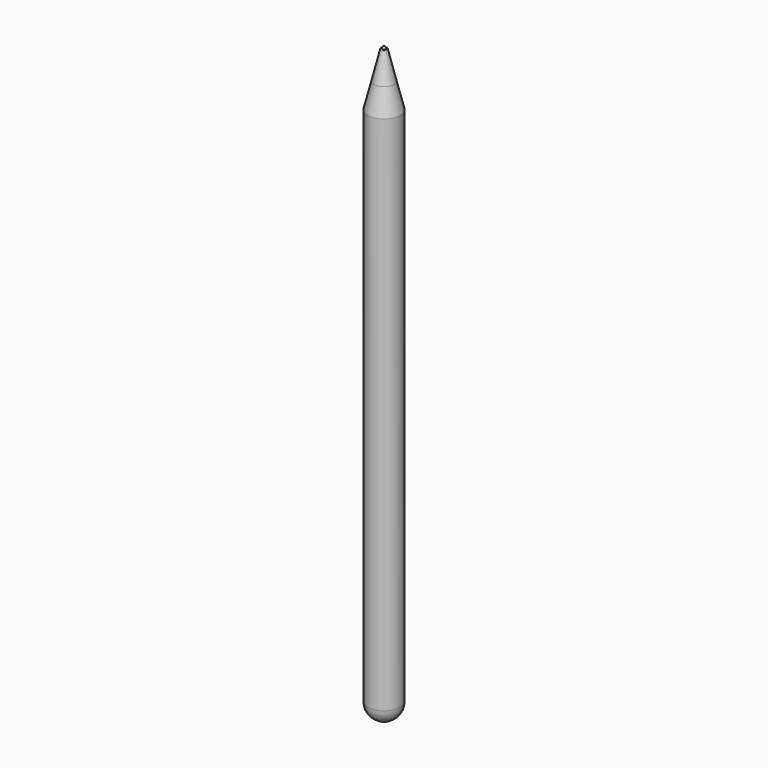
from build123d import *

# Parameters (mm, degrees)
SKETCH005_R     = 4.5
PAD003_DEPTH    = 145.5
SKETCH006_W     = 4
SKETCH006_H     = 3.989153
POCKET002_DEPTH = 150
SKETCH008_R     = 0.4
POCKET003_DEPTH = 10
FILLET002_R     = 0.2
SKETCH011_R     = 0.3
PAD004_DEPTH    = 3
FILLET003_R     = 0.1
SKETCH012_R     = 0.3
PAD005_DEPTH    = 3
FILLET004_R     = 0.1
SKETCH013_R     = 0.3
PAD006_DEPTH    = 3
FILLET005_R     = 0.1
SKETCH014_R     = 0.3
PAD007_DEPTH    = 3
FILLET006_R     = 0.1
SKETCH015_W     = 0.8
SKETCH015_H     = 7
PAD008_DEPTH    = 3
FILLET007_R     = 1
SKETCH016_W     = 4
SKETCH016_H     = 4
POCKET004_DEPTH = 75


with BuildPart() as obj1:
    # Sketch005 → Pad003 (new body)
    with BuildSketch(Plane.XY):
        Circle(SKETCH005_R)
    extrude(amount=PAD003_DEPTH)

    # Cone002 → Cone002 (revolve)
    with BuildSketch(Plane(origin=(0, 0, 145.5), x_dir=(0, 1, 0), z_dir=(1, 0, 0))):
        Polygon((0, 0), (4.5, 0), (2.75, 7), (0, 7), align=None)
    revolve(axis=Axis((0, 0, 145.5), (0, 0, 1)))

    # Sketch006 → Pocket002 (cut, symmetric)
    with BuildSketch(Plane.XY):
        with Locations((0, 6.025705)):
            Rectangle(SKETCH006_W, SKETCH006_H)
    extrude(amount=POCKET002_DEPTH, both=True, mode=Mode.SUBTRACT)

    # Sketch008 → Pocket003 (cut)
    with BuildSketch(Plane.XZ):
        with Locations((0, 19.9)):
            Circle(SKETCH008_R)
        with Locations((0, 21.9)):
            Circle(SKETCH008_R)
        with Locations((0, 23.9)):
            Circle(SKETCH008_R)
        with Locations((0, 25.9)):
            Circle(SKETCH008_R)
        with BuildLine():
            Line((-1.25, 14.25), (-1.25, 8.25))
            ThreePointArc((-1.25, 8.25), (0, 7), (1.25, 8.25))
            Line((1.25, 8.25), (1.25, 14.25))
            ThreePointArc((1.25, 14.25), (0, 15.5), (-1.25, 14.25))
        make_face()
    extrude(amount=-POCKET003_DEPTH, mode=Mode.SUBTRACT)


with BuildPart() as obj2:
    # Cone005 → Cone005 (revolve)
    with BuildSketch(Plane(origin=(0, 0, 152.5), x_dir=(0, 1, 0), z_dir=(1, 0, 0))):
        Polygon((0, 0), (2.75, 0), (0.8, 8), (0, 8), align=None)
    revolve(axis=Axis((0, 0, 152.5), (0, 0, 1)))

    # Fillet002
    fillet002_edges = [obj2.edges().sort_by_distance(p)[0] for p in [
        (0, -0.8, 160.5),
    ]]
    fillet(fillet002_edges, radius=FILLET002_R)


with BuildPart() as obj3:
    # Sphere004 → Sphere004 (revolve)
    with BuildSketch(Plane(origin=(0, 0, 160.5), x_dir=(0, 1, 0), z_dir=(1, 0, 0))):
        with BuildLine():
            ThreePointArc((0, -0.5), (0.5, 0), (0, 0.5))
            Line((0, 0.5), (0, -0.5))
        make_face()
    revolve(axis=Axis((0, 0, 160.5), (0, 0, 1)))


with BuildPart() as led1:
    # Sketch011 → Pad004 (new body)
    with BuildSketch(Plane.XZ):
        with Locations((0, 25.9)):
            Circle(SKETCH011_R)
    extrude(amount=-PAD004_DEPTH)

    # Fillet003
    fillet003_edges = [led1.edges().sort_by_distance(p)[0] for p in [
        (-0.3, 3, 25.9),
    ]]
    fillet(fillet003_edges, radius=FILLET003_R)


with BuildPart() as led2:
    # Sketch012 → Pad005 (new body)
    with BuildSketch(Plane.XZ):
        with Locations((0, 23.9)):
            Circle(SKETCH012_R)
    extrude(amount=-PAD005_DEPTH)

    # Fillet004
    fillet004_edges = [led2.edges().sort_by_distance(p)[0] for p in [
        (-0.3, 3, 23.9),
    ]]
    fillet(fillet004_edges, radius=FILLET004_R)


with BuildPart() as led3:
    # Sketch013 → Pad006 (new body)
    with BuildSketch(Plane.XZ):
        with Locations((0, 21.9)):
            Circle(SKETCH013_R)
    extrude(amount=-PAD006_DEPTH)

    # Fillet005
    fillet005_edges = [led3.edges().sort_by_distance(p)[0] for p in [
        (-0.3, 3, 21.9),
    ]]
    fillet(fillet005_edges, radius=FILLET005_R)


with BuildPart() as led4:
    # Sketch014 → Pad007 (new body)
    with BuildSketch(Plane.XZ):
        with Locations((0, 19.9)):
            Circle(SKETCH014_R)
    extrude(amount=-PAD007_DEPTH)

    # Fillet006
    fillet006_edges = [led4.edges().sort_by_distance(p)[0] for p in [
        (-0.3, 3, 19.9),
    ]]
    fillet(fillet006_edges, radius=FILLET006_R)


with BuildPart() as tipo_c:
    # Sketch015 → Pad008 (new body)
    with BuildSketch(Plane.XZ):
        with Locations((0, 11.25)):
            Rectangle(SKETCH015_W, SKETCH015_H)
    extrude(amount=-PAD008_DEPTH)

    # Fillet007
    fillet007_edges = [tipo_c.edges().sort_by_distance(p)[0] for p in [
        (0, 3, 14.75),
        (0, 3, 7.75),
    ]]
    fillet(fillet007_edges, radius=FILLET007_R)


with BuildPart() as obj4:
    # Sphere005 → Sphere005 (revolve)
    with BuildSketch(Plane(origin=(0, 0, 0), x_dir=(0, 1, 0), z_dir=(-1, 0, 0))):
        with BuildLine():
            ThreePointArc((4.5, 0), (3.181981, 3.181981), (0, 4.5))
            Line((0, 4.5), (0, 0))
            Line((0, 0), (4.5, 0))
        make_face()
    revolve(axis=Axis((0, 0, 0), (0, 0, -1)))

    # Sketch016 → Pocket004 (cut, symmetric)
    with BuildSketch(Plane.XY):
        with Locations((0, 6.03)):
            Rectangle(SKETCH016_W, SKETCH016_H)
    extrude(amount=POCKET004_DEPTH, both=True, mode=Mode.SUBTRACT)


solid = Compound([obj1.part, obj2.part, obj3.part, led1.part, led2.part, led3.part, led4.part, tipo_c.part, obj4.part])
